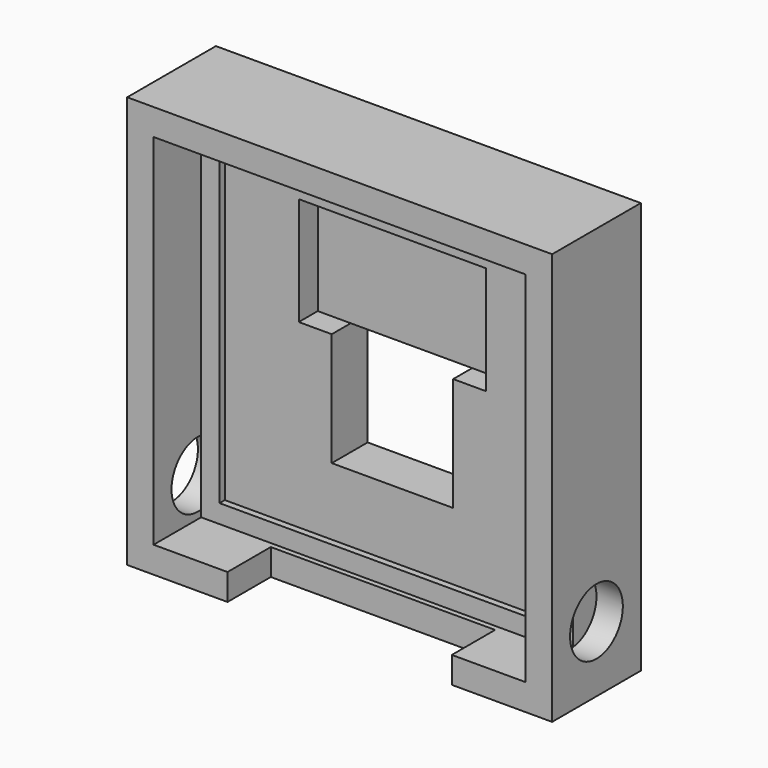
from build123d import *

# Parameters (mm, degrees)
F0_W      = 32.2
F0_H      = 31.2
F1_DEPTH  = 4.2
F2_W      = 9.2
F2_H      = 8.6
F3_DEPTH  = 8.4
F2_W_2    = 25.4
F2_H_2    = 24.4
F4_DEPTH  = 4.5
F5_DEPTH  = 5
F2_W_3    = 17
F2_H_3    = 2
F6_DEPTH  = 4.1
F7_DEPTH  = 6.8
F8_R      = 2.5
F9_DEPTH  = 2
F10_R     = 2.5
F11_DEPTH = 2


with BuildPart() as f1:
    # F0 (on Front) → F1 (new body, symmetric)
    with BuildSketch(Plane.XZ):
        Rectangle(F0_W, F0_H)
    extrude(amount=F1_DEPTH, both=True)

    # F2 (on face) → F3 (cut, through all)
    with BuildSketch(Plane.XZ.offset(4.2)):
        with Locations((0, -2.8)):
            Rectangle(F2_W, F2_H)
    extrude(amount=-F3_DEPTH, mode=Mode.SUBTRACT)

    # F2 (on face) → F4 (cut)
    with BuildSketch(Plane.XZ.offset(4.2)):
        Polygon((14.1, -13.6), (14.1, 13.6), (-14.1, 13.6), (-14.1, -13.6), (-8.5, -13.6), (8.5, -13.6), align=None)
        Rectangle(F2_W_2, F2_H_2, mode=Mode.SUBTRACT)
    extrude(amount=-F4_DEPTH, mode=Mode.SUBTRACT)

    # F5 (cut): a face of the model
    f5_faces = [f1.faces().sort_by_distance(p)[0] for p in [
        (-12.3477898355, -4.2, 0),
    ]]
    extrude(f5_faces, amount=-F5_DEPTH, mode=Mode.SUBTRACT)

    # F2 (on face) → F6 (cut)
    with BuildSketch(Plane.XZ.offset(4.2)):
        with Locations((0, -14.6)):
            Rectangle(F2_W_3, F2_H_3)
    extrude(amount=-F6_DEPTH, mode=Mode.SUBTRACT)

    # F2 (on face) → F7 (cut)
    with BuildSketch(Plane.XZ.offset(4.2)):
        Polygon((-7.1, 1.5), (-4.6, 1.5), (4.6, 1.5), (7.1, 1.5), (7.1, 9.7), (-7.1, 9.7), align=None)
    extrude(amount=-F7_DEPTH, mode=Mode.SUBTRACT)

    # F8 (on face) → F9 (cut)
    with BuildSketch(Plane.YZ.offset(16.1)):
        with Locations((0, -10.6)):
            Circle(F8_R)
    extrude(amount=-F9_DEPTH, mode=Mode.SUBTRACT)

    # F10 (on face) → F11 (cut)
    with BuildSketch(Plane(origin=(-16.1, 0, 0), x_dir=(0, -1, 0), z_dir=(-1, 0, 0))):
        with Locations((0, -10.6)):
            Circle(F10_R)
    extrude(amount=-F11_DEPTH, mode=Mode.SUBTRACT)


solid = f1.part
